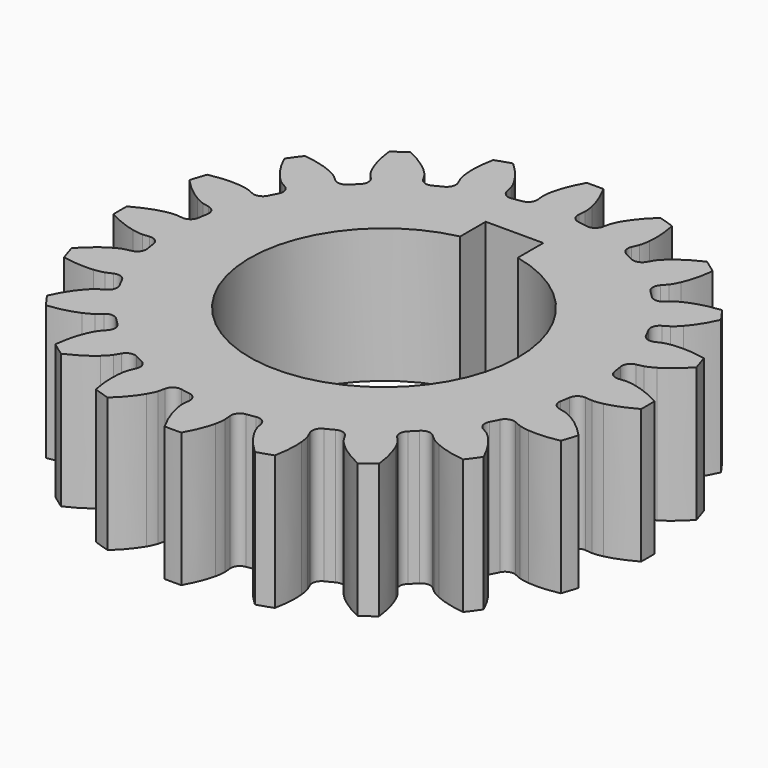
from build123d import *

# Parameters (mm, degrees)
PAD_DEPTH    = 7
POCKET_DEPTH = 7.001


with BuildPart() as part:
    # InvoluteGear → Pad (new body)
    with BuildSketch(Plane.XY):
        with BuildLine():
            Line((11.36271, -1.064881), (11.717318, -1.097171))
            add(Edge.make_bspline(
                [(11.717318, -1.097171), (11.776361, -1.099058), (11.954079, -1.097525), (12.250595, -1.033325)],
                knots=[0, 0, 0, 0, 1, 1, 1, 1], degree=3))
            add(Edge.make_bspline(
                [(12.250595, -1.033325), (12.605293, -0.955347), (13.115728, -0.788419), (13.744527, -0.433709)],
                knots=[0, 0, 0, 0, 1, 1, 1, 1], degree=3))
            ThreePointArc((13.744527, -0.433709), (13.750684, 0.00027), (13.743142, 0.434228))
            add(Edge.make_bspline(
                [(13.743142, 0.434228), (13.115728, 0.788419), (12.605293, 0.955347), (12.250595, 1.033325)],
                knots=[0, 0, 0, 0, 1, 1, 1, 1], degree=3))
            add(Edge.make_bspline(
                [(12.250595, 1.033325), (11.954079, 1.097525), (11.776361, 1.099058), (11.717318, 1.097171)],
                knots=[0, 0, 0, 0, 1, 1, 1, 1], degree=3))
            Line((11.717318, 1.097171), (11.36271, 1.064881))
            ThreePointArc((11.36271, 1.064881), (11.017167, 1.161661), (10.837923, 1.472528))
            ThreePointArc((10.837923, 1.472528), (10.802841, 1.711002), (10.762513, 1.948645))
            ThreePointArc((10.762513, 1.948645), (10.836921, 2.299686), (11.135646, 2.498509))
            Line((11.135646, 2.498509), (11.482876, 2.577378))
            add(Edge.make_bspline(
                [(11.482876, 2.577378), (11.539612, 2.593829), (11.708158, 2.650205), (11.970323, 2.802892)],
                knots=[0, 0, 0, 0, 1, 1, 1, 1], degree=3))
            add(Edge.make_bspline(
                [(11.970323, 2.802892), (12.283565, 2.986661), (12.717433, 3.303152), (13.205845, 3.83481)],
                knots=[0, 0, 0, 0, 1, 1, 1, 1], degree=3))
            ThreePointArc((13.205845, 3.83481), (13.077594, 4.249452), (12.936321, 4.65984))
            add(Edge.make_bspline(
                [(12.936321, 4.65984), (12.230164, 4.802814), (11.693128, 4.803839), (11.331693, 4.768393)],
                knots=[0, 0, 0, 0, 1, 1, 1, 1], degree=3))
            add(Edge.make_bspline(
                [(11.331693, 4.768393), (11.029851, 4.737822), (10.860357, 4.684362), (10.804787, 4.664322)],
                knots=[0, 0, 0, 0, 1, 1, 1, 1], degree=3))
            Line((10.804787, 4.664322), (10.477513, 4.524032))
            ThreePointArc((10.477513, 4.524032), (10.118975, 4.509297), (9.852441, 4.74956))
            ThreePointArc((9.852441, 4.74956), (9.745384, 4.965521), (9.633594, 5.179071))
            ThreePointArc((9.633594, 5.179071), (9.595882, 5.535925), (9.818547, 5.817327))
            Line((9.818547, 5.817327), (10.124411, 5.999636))
            add(Edge.make_bspline(
                [(10.124411, 5.999636), (10.173286, 6.032814), (10.316162, 6.138515), (10.518313, 6.364742)],
                knots=[0, 0, 0, 0, 1, 1, 1, 1], degree=3))
            add(Edge.make_bspline(
                [(10.518313, 6.364742), (10.759435, 6.636313), (11.074268, 7.071387), (11.374484, 7.727952)],
                knots=[0, 0, 0, 0, 1, 1, 1, 1], degree=3))
            ThreePointArc((11.374484, 7.727952), (11.124379, 8.082668), (10.863203, 8.429314))
            add(Edge.make_bspline(
                [(10.863203, 8.429314), (10.147426, 8.347076), (9.636357, 8.182097), (9.303566, 8.036697)],
                knots=[0, 0, 0, 0, 1, 1, 1, 1], degree=3))
            add(Edge.make_bspline(
                [(9.303566, 8.036697), (9.025944, 7.914348), (8.881266, 7.811128), (8.834608, 7.774897)],
                knots=[0, 0, 0, 0, 1, 1, 1, 1], degree=3))
            Line((8.834608, 7.774897), (8.566705, 7.54034))
            ThreePointArc((8.566705, 7.54034), (8.230268, 7.415532), (7.902533, 7.561671))
            ThreePointArc((7.902533, 7.561671), (7.73398, 7.73398), (7.561671, 7.902533))
            ThreePointArc((7.561671, 7.902533), (7.415532, 8.230268), (7.54034, 8.566705))
            Line((7.54034, 8.566705), (7.774897, 8.834608))
            add(Edge.make_bspline(
                [(7.774897, 8.834608), (7.811128, 8.881266), (7.914348, 9.025944), (8.036697, 9.303566)],
                knots=[0, 0, 0, 0, 1, 1, 1, 1], degree=3))
            add(Edge.make_bspline(
                [(8.036697, 9.303566), (8.182097, 9.636357), (8.347076, 10.147426), (8.429708, 10.864628)],
                knots=[0, 0, 0, 0, 1, 1, 1, 1], degree=3))
            ThreePointArc((8.429708, 10.864628), (8.082231, 11.124696), (7.726718, 11.373668))
            add(Edge.make_bspline(
                [(7.726718, 11.373668), (7.071387, 11.074268), (6.636313, 10.759435), (6.364742, 10.518313)],
                knots=[0, 0, 0, 0, 1, 1, 1, 1], degree=3))
            add(Edge.make_bspline(
                [(6.364742, 10.518313), (6.138515, 10.316162), (6.032814, 10.173286), (5.999636, 10.124411)],
                knots=[0, 0, 0, 0, 1, 1, 1, 1], degree=3))
            Line((5.999636, 10.124411), (5.817327, 9.818547))
            ThreePointArc((5.817327, 9.818547), (5.535925, 9.595882), (5.179071, 9.633594))
            ThreePointArc((5.179071, 9.633594), (4.965521, 9.745384), (4.74956, 9.852441))
            ThreePointArc((4.74956, 9.852441), (4.509297, 10.118975), (4.524032, 10.477513))
            Line((4.524032, 10.477513), (4.664322, 10.804787))
            add(Edge.make_bspline(
                [(4.664322, 10.804787), (4.684362, 10.860357), (4.737822, 11.029851), (4.768393, 11.331693)],
                knots=[0, 0, 0, 0, 1, 1, 1, 1], degree=3))
            add(Edge.make_bspline(
                [(4.768393, 11.331693), (4.803839, 11.693128), (4.802814, 12.230164), (4.659774, 12.937798)],
                knots=[0, 0, 0, 0, 1, 1, 1, 1], degree=3))
            ThreePointArc((4.659774, 12.937798), (4.248938, 13.077761), (3.833889, 13.204688))
            add(Edge.make_bspline(
                [(3.833889, 13.204688), (3.303152, 12.717433), (2.986661, 12.283565), (2.802892, 11.970323)],
                knots=[0, 0, 0, 0, 1, 1, 1, 1], degree=3))
            add(Edge.make_bspline(
                [(2.802892, 11.970323), (2.650205, 11.708158), (2.593829, 11.539612), (2.577378, 11.482876)],
                knots=[0, 0, 0, 0, 1, 1, 1, 1], degree=3))
            Line((2.577378, 11.482876), (2.498509, 11.135646))
            ThreePointArc((2.498509, 11.135646), (2.299686, 10.836921), (1.948645, 10.762513))
            ThreePointArc((1.948645, 10.762513), (1.711002, 10.802841), (1.472528, 10.837923))
            ThreePointArc((1.472528, 10.837923), (1.161661, 11.017167), (1.064881, 11.36271))
            Line((1.064881, 11.36271), (1.097171, 11.717318))
            add(Edge.make_bspline(
                [(1.097171, 11.717318), (1.099058, 11.776361), (1.097525, 11.954079), (1.033325, 12.250595)],
                knots=[0, 0, 0, 0, 1, 1, 1, 1], degree=3))
            add(Edge.make_bspline(
                [(1.033325, 12.250595), (0.955347, 12.605293), (0.788419, 13.115728), (0.433709, 13.744527)],
                knots=[0, 0, 0, 0, 1, 1, 1, 1], degree=3))
            ThreePointArc((0.433709, 13.744527), (-0.00027, 13.750684), (-0.434228, 13.743142))
            add(Edge.make_bspline(
                [(-0.434228, 13.743142), (-0.788419, 13.115728), (-0.955347, 12.605293), (-1.033325, 12.250595)],
                knots=[0, 0, 0, 0, 1, 1, 1, 1], degree=3))
            add(Edge.make_bspline(
                [(-1.033325, 12.250595), (-1.097525, 11.954079), (-1.099058, 11.776361), (-1.097171, 11.717318)],
                knots=[0, 0, 0, 0, 1, 1, 1, 1], degree=3))
            Line((-1.097171, 11.717318), (-1.064881, 11.36271))
            ThreePointArc((-1.064881, 11.36271), (-1.161661, 11.017167), (-1.472528, 10.837923))
            ThreePointArc((-1.472528, 10.837923), (-1.711002, 10.802841), (-1.948645, 10.762513))
            ThreePointArc((-1.948645, 10.762513), (-2.299686, 10.836921), (-2.498509, 11.135646))
            Line((-2.498509, 11.135646), (-2.577378, 11.482876))
            add(Edge.make_bspline(
                [(-2.577378, 11.482876), (-2.593829, 11.539612), (-2.650205, 11.708158), (-2.802892, 11.970323)],
                knots=[0, 0, 0, 0, 1, 1, 1, 1], degree=3))
            add(Edge.make_bspline(
                [(-2.802892, 11.970323), (-2.986661, 12.283565), (-3.303152, 12.717433), (-3.83481, 13.205845)],
                knots=[0, 0, 0, 0, 1, 1, 1, 1], degree=3))
            ThreePointArc((-3.83481, 13.205845), (-4.249452, 13.077594), (-4.65984, 12.936321))
            add(Edge.make_bspline(
                [(-4.65984, 12.936321), (-4.802814, 12.230164), (-4.803839, 11.693128), (-4.768393, 11.331693)],
                knots=[0, 0, 0, 0, 1, 1, 1, 1], degree=3))
            add(Edge.make_bspline(
                [(-4.768393, 11.331693), (-4.737822, 11.029851), (-4.684362, 10.860357), (-4.664322, 10.804787)],
                knots=[0, 0, 0, 0, 1, 1, 1, 1], degree=3))
            Line((-4.664322, 10.804787), (-4.524032, 10.477513))
            ThreePointArc((-4.524032, 10.477513), (-4.509297, 10.118975), (-4.74956, 9.852441))
            ThreePointArc((-4.74956, 9.852441), (-4.965521, 9.745384), (-5.179071, 9.633594))
            ThreePointArc((-5.179071, 9.633594), (-5.535925, 9.595882), (-5.817327, 9.818547))
            Line((-5.817327, 9.818547), (-5.999636, 10.124411))
            add(Edge.make_bspline(
                [(-5.999636, 10.124411), (-6.032814, 10.173286), (-6.138515, 10.316162), (-6.364742, 10.518313)],
                knots=[0, 0, 0, 0, 1, 1, 1, 1], degree=3))
            add(Edge.make_bspline(
                [(-6.364742, 10.518313), (-6.636313, 10.759435), (-7.071387, 11.074268), (-7.727952, 11.374484)],
                knots=[0, 0, 0, 0, 1, 1, 1, 1], degree=3))
            ThreePointArc((-7.727952, 11.374484), (-8.082668, 11.124379), (-8.429314, 10.863203))
            add(Edge.make_bspline(
                [(-8.429314, 10.863203), (-8.347076, 10.147426), (-8.182097, 9.636357), (-8.036697, 9.303566)],
                knots=[0, 0, 0, 0, 1, 1, 1, 1], degree=3))
            add(Edge.make_bspline(
                [(-8.036697, 9.303566), (-7.914348, 9.025944), (-7.811128, 8.881266), (-7.774897, 8.834608)],
                knots=[0, 0, 0, 0, 1, 1, 1, 1], degree=3))
            Line((-7.774897, 8.834608), (-7.54034, 8.566705))
            ThreePointArc((-7.54034, 8.566705), (-7.415532, 8.230268), (-7.561671, 7.902533))
            ThreePointArc((-7.561671, 7.902533), (-7.73398, 7.73398), (-7.902533, 7.561671))
            ThreePointArc((-7.902533, 7.561671), (-8.230268, 7.415532), (-8.566705, 7.54034))
            Line((-8.566705, 7.54034), (-8.834608, 7.774897))
            add(Edge.make_bspline(
                [(-8.834608, 7.774897), (-8.881266, 7.811128), (-9.025944, 7.914348), (-9.303566, 8.036697)],
                knots=[0, 0, 0, 0, 1, 1, 1, 1], degree=3))
            add(Edge.make_bspline(
                [(-9.303566, 8.036697), (-9.636357, 8.182097), (-10.147426, 8.347076), (-10.864628, 8.429708)],
                knots=[0, 0, 0, 0, 1, 1, 1, 1], degree=3))
            ThreePointArc((-10.864628, 8.429708), (-11.124696, 8.082231), (-11.373668, 7.726718))
            add(Edge.make_bspline(
                [(-11.373668, 7.726718), (-11.074268, 7.071387), (-10.759435, 6.636313), (-10.518313, 6.364742)],
                knots=[0, 0, 0, 0, 1, 1, 1, 1], degree=3))
            add(Edge.make_bspline(
                [(-10.518313, 6.364742), (-10.316162, 6.138515), (-10.173286, 6.032814), (-10.124411, 5.999636)],
                knots=[0, 0, 0, 0, 1, 1, 1, 1], degree=3))
            Line((-10.124411, 5.999636), (-9.818547, 5.817327))
            ThreePointArc((-9.818547, 5.817327), (-9.595882, 5.535925), (-9.633594, 5.179071))
            ThreePointArc((-9.633594, 5.179071), (-9.745384, 4.965521), (-9.852441, 4.74956))
            ThreePointArc((-9.852441, 4.74956), (-10.118975, 4.509297), (-10.477513, 4.524032))
            Line((-10.477513, 4.524032), (-10.804787, 4.664322))
            add(Edge.make_bspline(
                [(-10.804787, 4.664322), (-10.860357, 4.684362), (-11.029851, 4.737822), (-11.331693, 4.768393)],
                knots=[0, 0, 0, 0, 1, 1, 1, 1], degree=3))
            add(Edge.make_bspline(
                [(-11.331693, 4.768393), (-11.693128, 4.803839), (-12.230164, 4.802814), (-12.937798, 4.659774)],
                knots=[0, 0, 0, 0, 1, 1, 1, 1], degree=3))
            ThreePointArc((-12.937798, 4.659774), (-13.077761, 4.248938), (-13.204688, 3.833889))
            add(Edge.make_bspline(
                [(-13.204688, 3.833889), (-12.717433, 3.303152), (-12.283565, 2.986661), (-11.970323, 2.802892)],
                knots=[0, 0, 0, 0, 1, 1, 1, 1], degree=3))
            add(Edge.make_bspline(
                [(-11.970323, 2.802892), (-11.708158, 2.650205), (-11.539612, 2.593829), (-11.482876, 2.577378)],
                knots=[0, 0, 0, 0, 1, 1, 1, 1], degree=3))
            Line((-11.482876, 2.577378), (-11.135646, 2.498509))
            ThreePointArc((-11.135646, 2.498509), (-10.836921, 2.299686), (-10.762513, 1.948645))
            ThreePointArc((-10.762513, 1.948645), (-10.802841, 1.711002), (-10.837923, 1.472528))
            ThreePointArc((-10.837923, 1.472528), (-11.017167, 1.161661), (-11.36271, 1.064881))
            Line((-11.36271, 1.064881), (-11.717318, 1.097171))
            add(Edge.make_bspline(
                [(-11.717318, 1.097171), (-11.776361, 1.099058), (-11.954079, 1.097525), (-12.250595, 1.033325)],
                knots=[0, 0, 0, 0, 1, 1, 1, 1], degree=3))
            add(Edge.make_bspline(
                [(-12.250595, 1.033325), (-12.605293, 0.955347), (-13.115728, 0.788419), (-13.744527, 0.433709)],
                knots=[0, 0, 0, 0, 1, 1, 1, 1], degree=3))
            ThreePointArc((-13.744527, 0.433709), (-13.750684, -0.00027), (-13.743142, -0.434228))
            add(Edge.make_bspline(
                [(-13.743142, -0.434228), (-13.115728, -0.788419), (-12.605293, -0.955347), (-12.250595, -1.033325)],
                knots=[0, 0, 0, 0, 1, 1, 1, 1], degree=3))
            add(Edge.make_bspline(
                [(-12.250595, -1.033325), (-11.954079, -1.097525), (-11.776361, -1.099058), (-11.717318, -1.097171)],
                knots=[0, 0, 0, 0, 1, 1, 1, 1], degree=3))
            Line((-11.717318, -1.097171), (-11.36271, -1.064881))
            ThreePointArc((-11.36271, -1.064881), (-11.017167, -1.161661), (-10.837923, -1.472528))
            ThreePointArc((-10.837923, -1.472528), (-10.802841, -1.711002), (-10.762513, -1.948645))
            ThreePointArc((-10.762513, -1.948645), (-10.836921, -2.299686), (-11.135646, -2.498509))
            Line((-11.135646, -2.498509), (-11.482876, -2.577378))
            add(Edge.make_bspline(
                [(-11.482876, -2.577378), (-11.539612, -2.593829), (-11.708158, -2.650205), (-11.970323, -2.802892)],
                knots=[0, 0, 0, 0, 1, 1, 1, 1], degree=3))
            add(Edge.make_bspline(
                [(-11.970323, -2.802892), (-12.283565, -2.986661), (-12.717433, -3.303152), (-13.205845, -3.83481)],
                knots=[0, 0, 0, 0, 1, 1, 1, 1], degree=3))
            ThreePointArc((-13.205845, -3.83481), (-13.077594, -4.249452), (-12.936321, -4.65984))
            add(Edge.make_bspline(
                [(-12.936321, -4.65984), (-12.230164, -4.802814), (-11.693128, -4.803839), (-11.331693, -4.768393)],
                knots=[0, 0, 0, 0, 1, 1, 1, 1], degree=3))
            add(Edge.make_bspline(
                [(-11.331693, -4.768393), (-11.029851, -4.737822), (-10.860357, -4.684362), (-10.804787, -4.664322)],
                knots=[0, 0, 0, 0, 1, 1, 1, 1], degree=3))
            Line((-10.804787, -4.664322), (-10.477513, -4.524032))
            ThreePointArc((-10.477513, -4.524032), (-10.118975, -4.509297), (-9.852441, -4.74956))
            ThreePointArc((-9.852441, -4.74956), (-9.745384, -4.965521), (-9.633594, -5.179071))
            ThreePointArc((-9.633594, -5.179071), (-9.595882, -5.535925), (-9.818547, -5.817327))
            Line((-9.818547, -5.817327), (-10.124411, -5.999636))
            add(Edge.make_bspline(
                [(-10.124411, -5.999636), (-10.173286, -6.032814), (-10.316162, -6.138515), (-10.518313, -6.364742)],
                knots=[0, 0, 0, 0, 1, 1, 1, 1], degree=3))
            add(Edge.make_bspline(
                [(-10.518313, -6.364742), (-10.759435, -6.636313), (-11.074268, -7.071387), (-11.374484, -7.727952)],
                knots=[0, 0, 0, 0, 1, 1, 1, 1], degree=3))
            ThreePointArc((-11.374484, -7.727952), (-11.124379, -8.082668), (-10.863203, -8.429314))
            add(Edge.make_bspline(
                [(-10.863203, -8.429314), (-10.147426, -8.347076), (-9.636357, -8.182097), (-9.303566, -8.036697)],
                knots=[0, 0, 0, 0, 1, 1, 1, 1], degree=3))
            add(Edge.make_bspline(
                [(-9.303566, -8.036697), (-9.025944, -7.914348), (-8.881266, -7.811128), (-8.834608, -7.774897)],
                knots=[0, 0, 0, 0, 1, 1, 1, 1], degree=3))
            Line((-8.834608, -7.774897), (-8.566705, -7.54034))
            ThreePointArc((-8.566705, -7.54034), (-8.230268, -7.415532), (-7.902533, -7.561671))
            ThreePointArc((-7.902533, -7.561671), (-7.73398, -7.73398), (-7.561671, -7.902533))
            ThreePointArc((-7.561671, -7.902533), (-7.415532, -8.230268), (-7.54034, -8.566705))
            Line((-7.54034, -8.566705), (-7.774897, -8.834608))
            add(Edge.make_bspline(
                [(-7.774897, -8.834608), (-7.811128, -8.881266), (-7.914348, -9.025944), (-8.036697, -9.303566)],
                knots=[0, 0, 0, 0, 1, 1, 1, 1], degree=3))
            add(Edge.make_bspline(
                [(-8.036697, -9.303566), (-8.182097, -9.636357), (-8.347076, -10.147426), (-8.429708, -10.864628)],
                knots=[0, 0, 0, 0, 1, 1, 1, 1], degree=3))
            ThreePointArc((-8.429708, -10.864628), (-8.082231, -11.124696), (-7.726718, -11.373668))
            add(Edge.make_bspline(
                [(-7.726718, -11.373668), (-7.071387, -11.074268), (-6.636313, -10.759435), (-6.364742, -10.518313)],
                knots=[0, 0, 0, 0, 1, 1, 1, 1], degree=3))
            add(Edge.make_bspline(
                [(-6.364742, -10.518313), (-6.138515, -10.316162), (-6.032814, -10.173286), (-5.999636, -10.124411)],
                knots=[0, 0, 0, 0, 1, 1, 1, 1], degree=3))
            Line((-5.999636, -10.124411), (-5.817327, -9.818547))
            ThreePointArc((-5.817327, -9.818547), (-5.535925, -9.595882), (-5.179071, -9.633594))
            ThreePointArc((-5.179071, -9.633594), (-4.965521, -9.745384), (-4.74956, -9.852441))
            ThreePointArc((-4.74956, -9.852441), (-4.509297, -10.118975), (-4.524032, -10.477513))
            Line((-4.524032, -10.477513), (-4.664322, -10.804787))
            add(Edge.make_bspline(
                [(-4.664322, -10.804787), (-4.684362, -10.860357), (-4.737822, -11.029851), (-4.768393, -11.331693)],
                knots=[0, 0, 0, 0, 1, 1, 1, 1], degree=3))
            add(Edge.make_bspline(
                [(-4.768393, -11.331693), (-4.803839, -11.693128), (-4.802814, -12.230164), (-4.659774, -12.937798)],
                knots=[0, 0, 0, 0, 1, 1, 1, 1], degree=3))
            ThreePointArc((-4.659774, -12.937798), (-4.248938, -13.077761), (-3.833889, -13.204688))
            add(Edge.make_bspline(
                [(-3.833889, -13.204688), (-3.303152, -12.717433), (-2.986661, -12.283565), (-2.802892, -11.970323)],
                knots=[0, 0, 0, 0, 1, 1, 1, 1], degree=3))
            add(Edge.make_bspline(
                [(-2.802892, -11.970323), (-2.650205, -11.708158), (-2.593829, -11.539612), (-2.577378, -11.482876)],
                knots=[0, 0, 0, 0, 1, 1, 1, 1], degree=3))
            Line((-2.577378, -11.482876), (-2.498509, -11.135646))
            ThreePointArc((-2.498509, -11.135646), (-2.299686, -10.836921), (-1.948645, -10.762513))
            ThreePointArc((-1.948645, -10.762513), (-1.711002, -10.802841), (-1.472528, -10.837923))
            ThreePointArc((-1.472528, -10.837923), (-1.161661, -11.017167), (-1.064881, -11.36271))
            Line((-1.064881, -11.36271), (-1.097171, -11.717318))
            add(Edge.make_bspline(
                [(-1.097171, -11.717318), (-1.099058, -11.776361), (-1.097525, -11.954079), (-1.033325, -12.250595)],
                knots=[0, 0, 0, 0, 1, 1, 1, 1], degree=3))
            add(Edge.make_bspline(
                [(-1.033325, -12.250595), (-0.955347, -12.605293), (-0.788419, -13.115728), (-0.433709, -13.744527)],
                knots=[0, 0, 0, 0, 1, 1, 1, 1], degree=3))
            ThreePointArc((-0.433709, -13.744527), (0.00027, -13.750684), (0.434228, -13.743142))
            add(Edge.make_bspline(
                [(0.434228, -13.743142), (0.788419, -13.115728), (0.955347, -12.605293), (1.033325, -12.250595)],
                knots=[0, 0, 0, 0, 1, 1, 1, 1], degree=3))
            add(Edge.make_bspline(
                [(1.033325, -12.250595), (1.097525, -11.954079), (1.099058, -11.776361), (1.097171, -11.717318)],
                knots=[0, 0, 0, 0, 1, 1, 1, 1], degree=3))
            Line((1.097171, -11.717318), (1.064881, -11.36271))
            ThreePointArc((1.064881, -11.36271), (1.161661, -11.017167), (1.472528, -10.837923))
            ThreePointArc((1.472528, -10.837923), (1.711002, -10.802841), (1.948645, -10.762513))
            ThreePointArc((1.948645, -10.762513), (2.299686, -10.836921), (2.498509, -11.135646))
            Line((2.498509, -11.135646), (2.577378, -11.482876))
            add(Edge.make_bspline(
                [(2.577378, -11.482876), (2.593829, -11.539612), (2.650205, -11.708158), (2.802892, -11.970323)],
                knots=[0, 0, 0, 0, 1, 1, 1, 1], degree=3))
            add(Edge.make_bspline(
                [(2.802892, -11.970323), (2.986661, -12.283565), (3.303152, -12.717433), (3.83481, -13.205845)],
                knots=[0, 0, 0, 0, 1, 1, 1, 1], degree=3))
            ThreePointArc((3.83481, -13.205845), (4.249452, -13.077594), (4.65984, -12.936321))
            add(Edge.make_bspline(
                [(4.65984, -12.936321), (4.802814, -12.230164), (4.803839, -11.693128), (4.768393, -11.331693)],
                knots=[0, 0, 0, 0, 1, 1, 1, 1], degree=3))
            add(Edge.make_bspline(
                [(4.768393, -11.331693), (4.737822, -11.029851), (4.684362, -10.860357), (4.664322, -10.804787)],
                knots=[0, 0, 0, 0, 1, 1, 1, 1], degree=3))
            Line((4.664322, -10.804787), (4.524032, -10.477513))
            ThreePointArc((4.524032, -10.477513), (4.509297, -10.118975), (4.74956, -9.852441))
            ThreePointArc((4.74956, -9.852441), (4.965521, -9.745384), (5.179071, -9.633594))
            ThreePointArc((5.179071, -9.633594), (5.535925, -9.595882), (5.817327, -9.818547))
            Line((5.817327, -9.818547), (5.999636, -10.124411))
            add(Edge.make_bspline(
                [(5.999636, -10.124411), (6.032814, -10.173286), (6.138515, -10.316162), (6.364742, -10.518313)],
                knots=[0, 0, 0, 0, 1, 1, 1, 1], degree=3))
            add(Edge.make_bspline(
                [(6.364742, -10.518313), (6.636313, -10.759435), (7.071387, -11.074268), (7.727952, -11.374484)],
                knots=[0, 0, 0, 0, 1, 1, 1, 1], degree=3))
            ThreePointArc((7.727952, -11.374484), (8.082668, -11.124379), (8.429314, -10.863203))
            add(Edge.make_bspline(
                [(8.429314, -10.863203), (8.347076, -10.147426), (8.182097, -9.636357), (8.036697, -9.303566)],
                knots=[0, 0, 0, 0, 1, 1, 1, 1], degree=3))
            add(Edge.make_bspline(
                [(8.036697, -9.303566), (7.914348, -9.025944), (7.811128, -8.881266), (7.774897, -8.834608)],
                knots=[0, 0, 0, 0, 1, 1, 1, 1], degree=3))
            Line((7.774897, -8.834608), (7.54034, -8.566705))
            ThreePointArc((7.54034, -8.566705), (7.415532, -8.230268), (7.561671, -7.902533))
            ThreePointArc((7.561671, -7.902533), (7.73398, -7.73398), (7.902533, -7.561671))
            ThreePointArc((7.902533, -7.561671), (8.230268, -7.415532), (8.566705, -7.54034))
            Line((8.566705, -7.54034), (8.834608, -7.774897))
            add(Edge.make_bspline(
                [(8.834608, -7.774897), (8.881266, -7.811128), (9.025944, -7.914348), (9.303566, -8.036697)],
                knots=[0, 0, 0, 0, 1, 1, 1, 1], degree=3))
            add(Edge.make_bspline(
                [(9.303566, -8.036697), (9.636357, -8.182097), (10.147426, -8.347076), (10.864628, -8.429708)],
                knots=[0, 0, 0, 0, 1, 1, 1, 1], degree=3))
            ThreePointArc((10.864628, -8.429708), (11.124696, -8.082231), (11.373668, -7.726718))
            add(Edge.make_bspline(
                [(11.373668, -7.726718), (11.074268, -7.071387), (10.759435, -6.636313), (10.518313, -6.364742)],
                knots=[0, 0, 0, 0, 1, 1, 1, 1], degree=3))
            add(Edge.make_bspline(
                [(10.518313, -6.364742), (10.316162, -6.138515), (10.173286, -6.032814), (10.124411, -5.999636)],
                knots=[0, 0, 0, 0, 1, 1, 1, 1], degree=3))
            Line((10.124411, -5.999636), (9.818547, -5.817327))
            ThreePointArc((9.818547, -5.817327), (9.595882, -5.535925), (9.633594, -5.179071))
            ThreePointArc((9.633594, -5.179071), (9.745384, -4.965521), (9.852441, -4.74956))
            ThreePointArc((9.852441, -4.74956), (10.118975, -4.509297), (10.477513, -4.524032))
            Line((10.477513, -4.524032), (10.804787, -4.664322))
            add(Edge.make_bspline(
                [(10.804787, -4.664322), (10.860357, -4.684362), (11.029851, -4.737822), (11.331693, -4.768393)],
                knots=[0, 0, 0, 0, 1, 1, 1, 1], degree=3))
            add(Edge.make_bspline(
                [(11.331693, -4.768393), (11.693128, -4.803839), (12.230164, -4.802814), (12.937798, -4.659774)],
                knots=[0, 0, 0, 0, 1, 1, 1, 1], degree=3))
            ThreePointArc((12.937798, -4.659774), (13.077761, -4.248938), (13.204688, -3.833889))
            add(Edge.make_bspline(
                [(13.204688, -3.833889), (12.717433, -3.303152), (12.283565, -2.986661), (11.970323, -2.802892)],
                knots=[0, 0, 0, 0, 1, 1, 1, 1], degree=3))
            add(Edge.make_bspline(
                [(11.970323, -2.802892), (11.708158, -2.650205), (11.539612, -2.593829), (11.482876, -2.577378)],
                knots=[0, 0, 0, 0, 1, 1, 1, 1], degree=3))
            Line((11.482876, -2.577378), (11.135646, -2.498509))
            ThreePointArc((11.135646, -2.498509), (10.836921, -2.299686), (10.762513, -1.948645))
            ThreePointArc((10.762513, -1.948645), (10.802841, -1.711002), (10.837923, -1.472528))
            ThreePointArc((10.837923, -1.472528), (11.017167, -1.161661), (11.36271, -1.064881))
        make_face()
    extrude(amount=PAD_DEPTH)

    # Sketch001 → Pocket (cut, through all)
    with BuildSketch(Plane.XY.offset(7)):
        with BuildLine():
            ThreePointArc((-1.5, 6.837397), (0, -7), (1.5, 6.837397))
            Line((1.5, 8.5), (1.5, 6.837397))
            Line((-1.5, 8.5), (1.5, 8.5))
            Line((-1.5, 8.5), (-1.5, 6.837397))
        make_face()
    extrude(amount=-POCKET_DEPTH, mode=Mode.SUBTRACT)


solid = part.part
